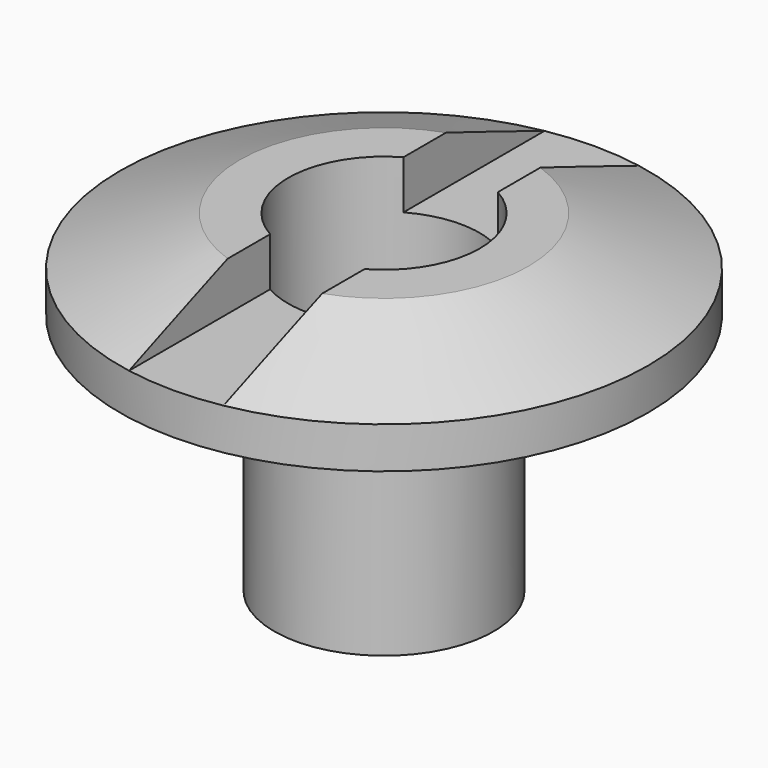
from build123d import *

# Parameters (mm, degrees)
F2_W     = 1.8542
F2_H     = 0.9525
F3_DEPTH = 6.35
F4_R     = 1.8796
F5_DEPTH = 6.5288


with BuildPart() as f1:
    # F0 (on Front) → F1 (revolve)
    with BuildSketch(Plane.XZ):
        Polygon((17.789439, 2.350953), (17.789439, 8.878753), (14.957339, 8.878753), (12.607839, 7.926253), (12.607839, 7.113453), (15.635291, 7.113453), (15.635291, 2.350953), align=None)
    revolve(axis=Axis((17.789439, 0, 5.614853), (0, 0, -1)))

    # F2 (on Front) → F3 (cut, symmetric)
    with BuildSketch(Plane.XZ):
        with Locations((17.789439, 8.402503)):
            Rectangle(F2_W, F2_H)
    extrude(amount=F3_DEPTH, both=True, mode=Mode.SUBTRACT)

    # F4 (on face) → F5 (cut, through all)
    with BuildSketch(Plane(origin=(0, 0, 2.350953), x_dir=(1, 0, 0), z_dir=(0, 0, -1))):
        with Locations((17.789439, 0)):
            Circle(F4_R)
    extrude(amount=-F5_DEPTH, mode=Mode.SUBTRACT)


solid = f1.part
